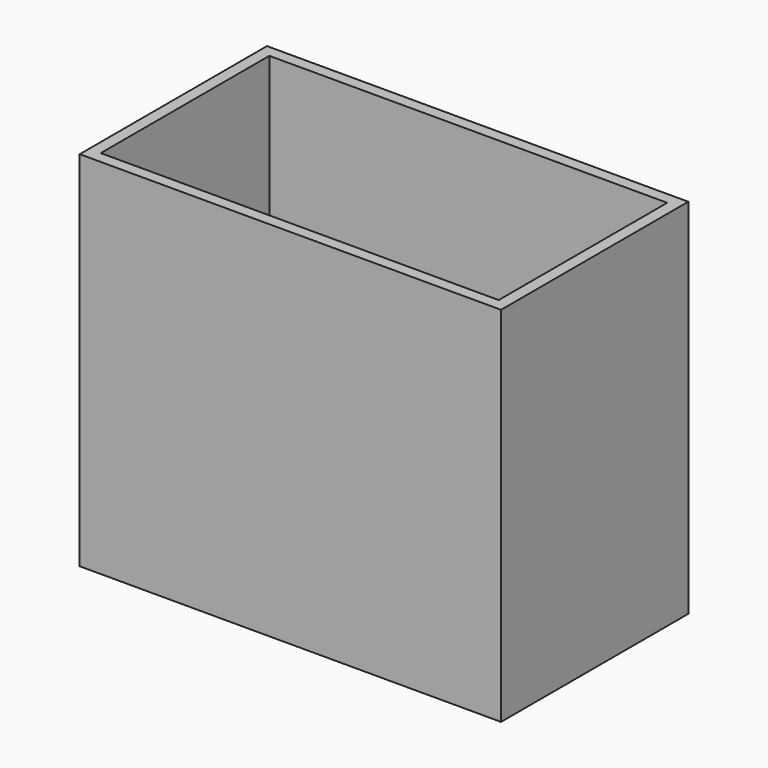
from build123d import *

# Parameters (mm, degrees)
F0_W     = 431.8
F0_H     = 381
F1_DEPTH = 228.6
F2_T     = 12.7


with BuildPart() as f1:
    # F0 (on Front) → F1 (new body)
    with BuildSketch(Plane.XZ):
        Rectangle(F0_W, F0_H)
    extrude(amount=F1_DEPTH)

    # F2
    f2_openings = [f1.faces().sort_by_distance(p)[0] for p in [
        (0, -114.3, 190.5),
    ]]
    offset(amount=F2_T, openings=f2_openings, kind=Kind.INTERSECTION)


solid = f1.part
